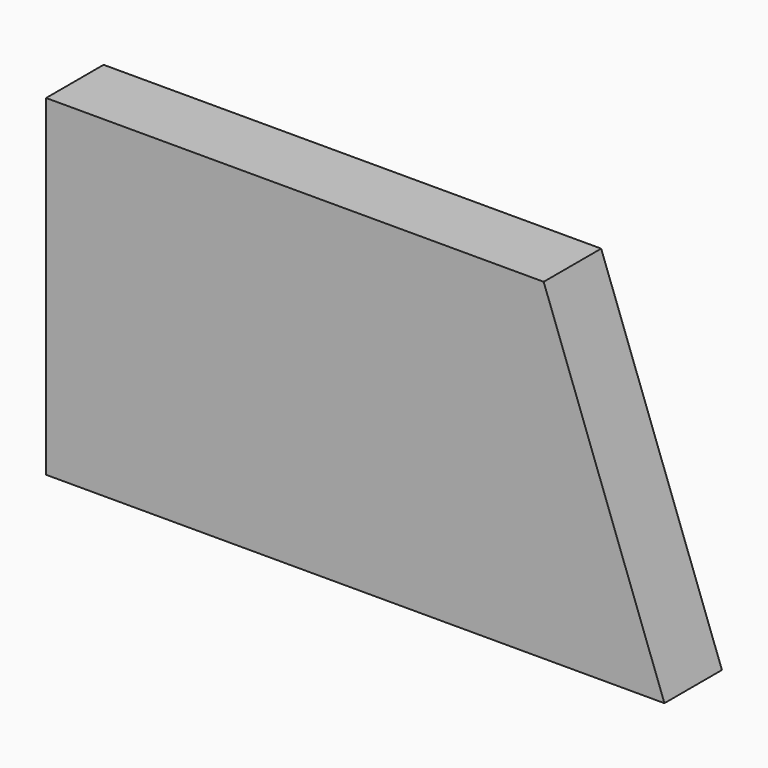
from build123d import *

# Parameters (mm, degrees)
SKETCH_W     = 115
SKETCH_H     = 60
PAD_DEPTH    = 13
POCKET_DEPTH = 13.001


with BuildPart() as part:
    # Sketch → Pad (new body)
    with BuildSketch(Plane.XZ):
        with Locations((57.5, 30)):
            Rectangle(SKETCH_W, SKETCH_H)
    extrude(amount=-PAD_DEPTH)

    # Sketch001 → Pocket (cut, through all)
    with BuildSketch(Plane.XZ):
        Polygon((111.838214, 0), (115, 0), (115, 60), (90, 60), align=None)
    extrude(amount=-POCKET_DEPTH, mode=Mode.SUBTRACT)


solid = part.part
